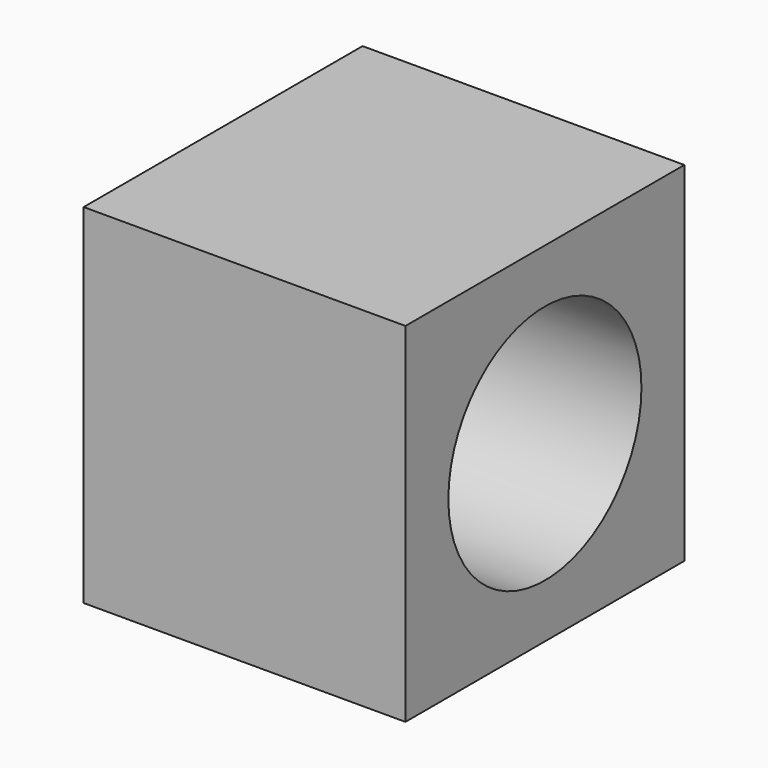
from build123d import *

# Parameters (mm, degrees)
F1_W     = 65
F1_H     = 65
F1_R     = 22.5
F2_DEPTH = 60


with BuildPart() as f2:
    # F1 (on offset) → F2 (new body)
    with BuildSketch(Plane.YZ.offset(-100)):
        Rectangle(F1_W, F1_H)
        Circle(F1_R, mode=Mode.SUBTRACT)
    extrude(amount=-F2_DEPTH)


solid = f2.part
